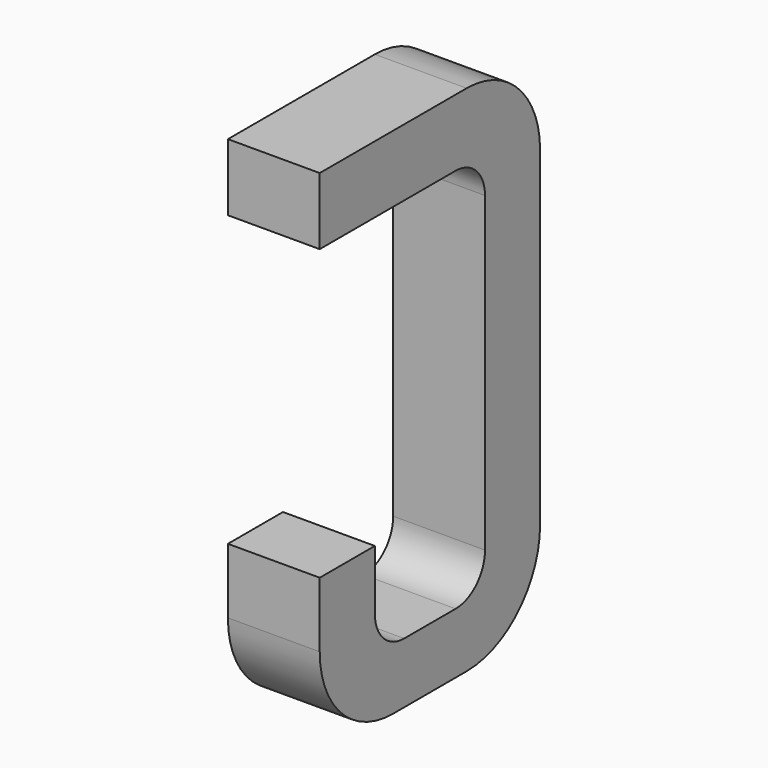
from build123d import *

# Parameters (mm, degrees)
BOX166_W     = 0.5
BOX166_H     = 1.5
BOX166_DEPTH = 2.795
FILLET418_R  = 0.5
FILLET357_R  = 0.5
FILLET429_R  = 0.5
BOX168_W     = 0.75
BOX168_H     = 2.1
BOX168_DEPTH = 1
FILLET432_R  = 0.2
FILLET345_R  = 0.2
FILLET426_R  = 0.2
FILLET428_R  = 0.2
BOX158_W     = 1
BOX158_H     = 1.575
BOX158_DEPTH = 3


with BuildPart() as part:
    # Box166 → Box166 (join)
    with BuildSketch(Plane(origin=(-0.25, 11.125, 0), x_dir=(1, 0, 0), z_dir=(0, 0, 1))):
        with Locations((0.25, 0.75)):
            Rectangle(BOX166_W, BOX166_H)
    extrude(amount=BOX166_DEPTH)

    # Fillet418
    fillet418_edges = [part.edges().sort_by_distance(p)[0] for p in [
        (0, 12.625, 0),
    ]]
    fillet(fillet418_edges, radius=FILLET418_R)

    # Fillet357
    fillet357_edges = [part.edges().sort_by_distance(p)[0] for p in [
        (0, 12.625, 2.795),
    ]]
    fillet(fillet357_edges, radius=FILLET357_R)

    # Fillet429
    fillet429_edges = [part.edges().sort_by_distance(p)[0] for p in [
        (0, 11.125, 0),
    ]]
    fillet(fillet429_edges, radius=FILLET429_R)

    # Box168 → Box168 (cut)
    with BuildSketch(Plane(origin=(-0.5, 11.5, 0.33), x_dir=(0, 1, 0), z_dir=(1, 0, 0))):
        with Locations((0.375, 1.05)):
            Rectangle(BOX168_W, BOX168_H)
    extrude(amount=BOX168_DEPTH, mode=Mode.SUBTRACT)

    # Fillet432
    fillet432_edges = [part.edges().sort_by_distance(p)[0] for p in [
        (0, 11.5, 0.33),
    ]]
    fillet(fillet432_edges, radius=FILLET432_R)

    # Fillet345
    fillet345_edges = [part.edges().sort_by_distance(p)[0] for p in [
        (0, 12.25, 0.33),
    ]]
    fillet(fillet345_edges, radius=FILLET345_R)

    # Fillet426
    fillet426_edges = [part.edges().sort_by_distance(p)[0] for p in [
        (0, 11.5, 2.43),
    ]]
    fillet(fillet426_edges, radius=FILLET426_R)

    # Fillet428
    fillet428_edges = [part.edges().sort_by_distance(p)[0] for p in [
        (0, 12.25, 2.43),
    ]]
    fillet(fillet428_edges, radius=FILLET428_R)

    # Box158 → Box158 (cut)
    with BuildSketch(Plane(origin=(-1, 11, 0.855), x_dir=(0, 1, 0), z_dir=(1, 0, 0))):
        with Locations((0.5, 0.7875)):
            Rectangle(BOX158_W, BOX158_H)
    extrude(amount=BOX158_DEPTH, mode=Mode.SUBTRACT)


with BuildPart() as part_1:
    # Body060 placement: moved
    add(part.part.moved(Location((3.81, 0, 0))))


solid = part_1.part
